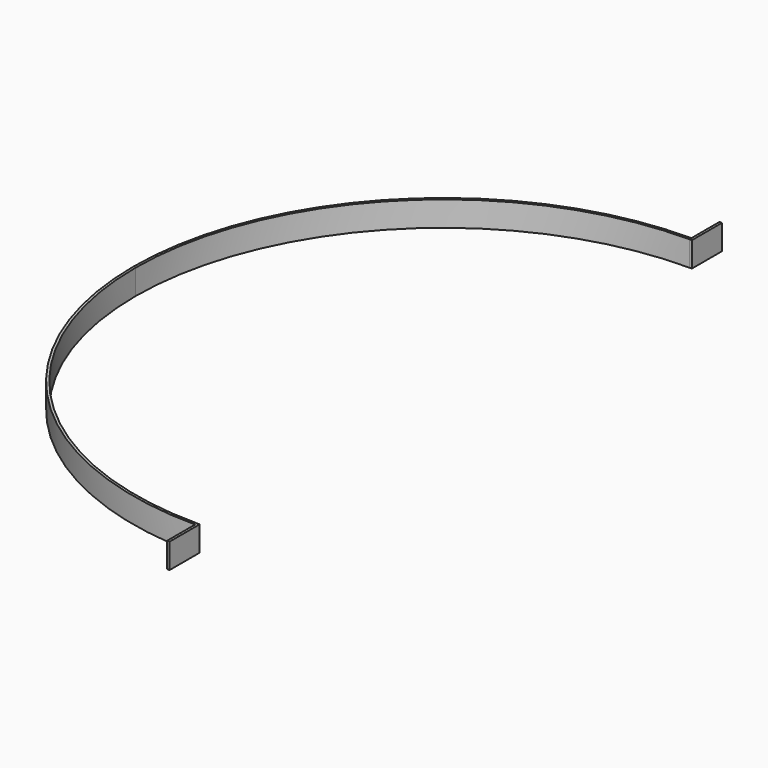
from build123d import *

# Parameters (mm, degrees)
F1_DEPTH = 50
F3_W     = 2
F3_H     = 2
F4_DEPTH = 2


with BuildPart() as f1:
    # F0 (on Top) → F1 (new body)
    with BuildSketch(Plane.XY):
        with BuildLine():
            Line((-615, 0), (-620, 0))
            ThreePointArc((-620, 0), (-438.406204, -438.406204), (0, -620))
            Line((0, -620), (0, -615))
            ThreePointArc((0, -615), (-434.87067, -434.87067), (-615, 0))
        make_face()
        Polygon((0, -615), (0, -620), (0, -690), (5, -690), (5, -615), align=None)
    extrude(amount=F1_DEPTH)

    # F2: F1 across face


with BuildPart() as f1_1:
    add(f1.part)
    add(f1.part.mirror(Plane(origin=(-617.5, 0, 25), x_dir=(-1, 0, 0), z_dir=(0, 1, 0))))


with BuildPart() as f4:
    # F3 (on Front) → F4 (new body)
    with BuildSketch(Plane.XZ):
        with Locations((-621, 1)):
            Rectangle(F3_W, F3_H)
    extrude(amount=F4_DEPTH)


solid = Compound([f1_1.part, f4.part])
